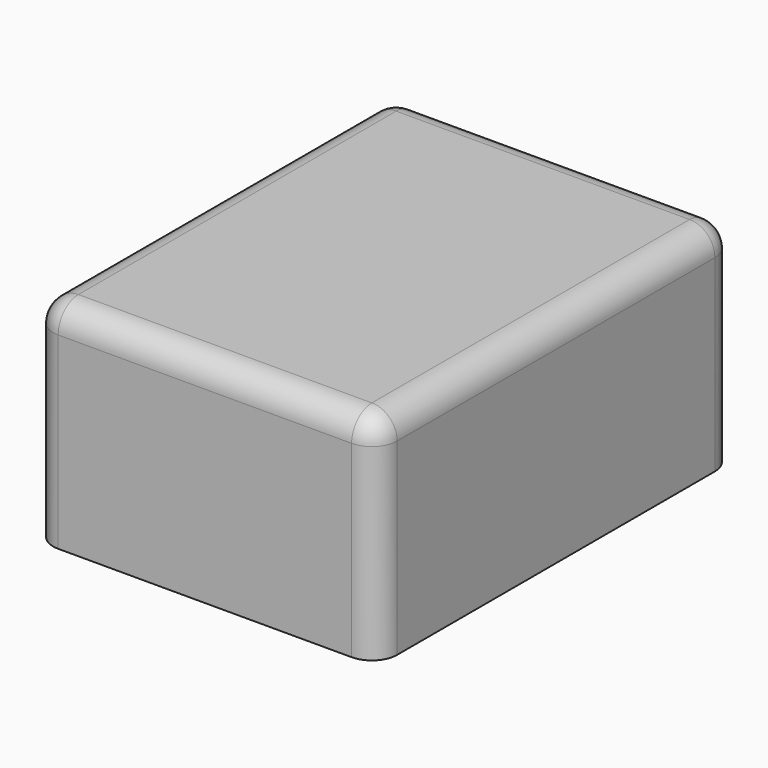
from build123d import *

# Parameters (mm, degrees)
F0_W     = 69.084123
F0_H     = 42.889162
F1_DEPTH = 89.916
F2_R     = 5.08
F3_T     = -1.27


with BuildPart() as f1:
    # F0 (on Front) → F1 (new body)
    with BuildSketch(Plane.XZ):
        with Locations((2.510917, 4.139618)):
            Rectangle(F0_W, F0_H)
    extrude(amount=-F1_DEPTH)

    # F2
    f2_edges = [f1.edges().sort_by_distance(p)[0] for p in [
        (37.052978, 44.958, 25.584199),
        (37.052978, 0, 4.139618),
        (2.510916, 0, 25.584199),
        (-32.031145, 44.958, 25.584199),
        (-32.031145, 0, 4.139618),
        (-32.031145, 89.916, 4.139618),
        (37.052978, 89.916, 4.139618),
        (2.510916, 89.916, 25.584199),
    ]]
    fillet(f2_edges, radius=F2_R)

    # F3
    f3_openings = [f1.faces().sort_by_distance(p)[0] for p in [
        (2.510916, 44.958, -17.304963),
    ]]
    offset(amount=F3_T, openings=f3_openings)


solid = f1.part
